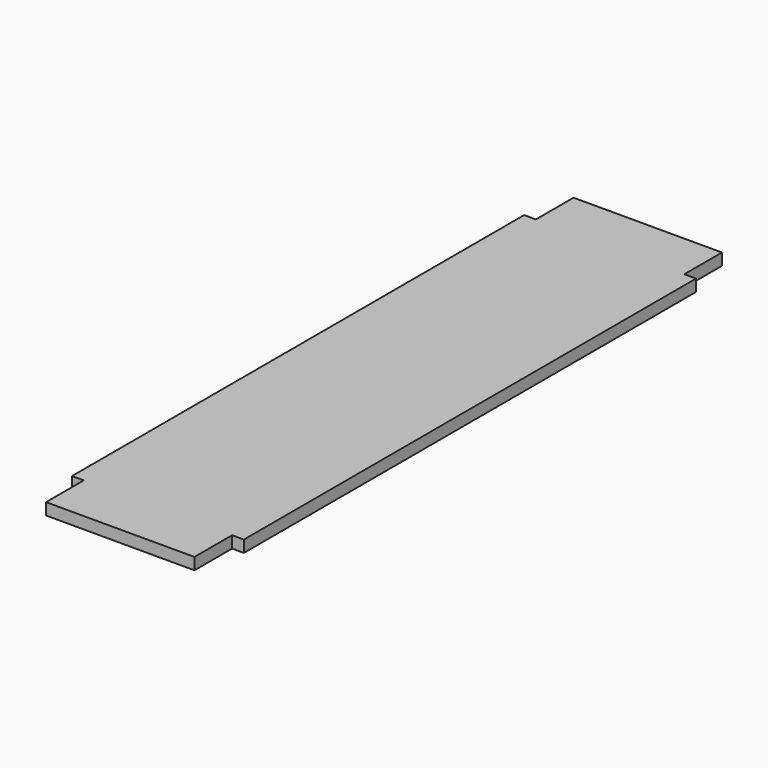
from build123d import *

# Parameters (mm, degrees)
F0_W     = 40.005
F0_H     = 177.8
F1_DEPTH = 3.175
F2_W     = 152.4
F2_H     = 3.175
F3_DEPTH = 3.175
F4_W     = 152.4
F4_H     = 3.175
F5_DEPTH = 3.175


with BuildPart() as f1:
    # F0 (on Top) → F1 (new body)
    with BuildSketch(Plane.XY):
        Rectangle(F0_W, F0_H)
    extrude(amount=F1_DEPTH)

    # F2 (on face) → F3 (join)
    with BuildSketch(Plane(origin=(-20.0025, 0, 0), x_dir=(0, -1, 0), z_dir=(-1, 0, 0))):
        with Locations((0, 1.5875)):
            Rectangle(F2_W, F2_H)
    extrude(amount=F3_DEPTH)

    # F4 (on face) → F5 (join)
    with BuildSketch(Plane.YZ.offset(20.0025)):
        with Locations((0, 1.5875)):
            Rectangle(F4_W, F4_H)
    extrude(amount=F5_DEPTH)


solid = f1.part
